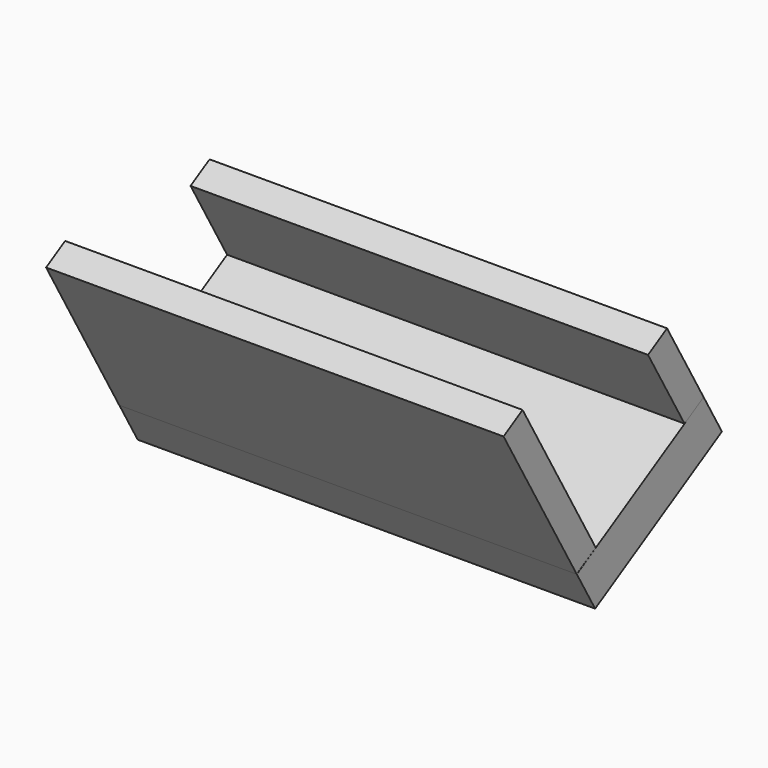
from build123d import *

# Parameters (mm, degrees)
SKETCH048_W             = 50
SKETCH048_H             = 20
PAD047_DEPTH            = 5
SKETCH049_W             = 50
SKETCH049_H             = 3
PAD048_DEPTH            = 20
SKETCH050_W             = 50
SKETCH050_H             = 10
PAD049_DEPTH            = 3
BODY040_PLACEMENT_ANGLE = 30


with BuildPart() as part:
    # Sketch048 → Pad047 (new body)
    with BuildSketch(Plane.XY):
        with Locations((184.845276, -123.914059)):
            Rectangle(SKETCH048_W, SKETCH048_H)
    extrude(amount=PAD047_DEPTH)

    # Sketch049 (on Face6 of Pad047) → Pad048 (join)
    with BuildSketch(Plane.XY.offset(5)):
        with Locations((184.83606, -132.417099)):
            Rectangle(SKETCH049_W, SKETCH049_H)
    extrude(amount=PAD048_DEPTH)

    # Sketch050 (on Face7 of Pad048) → Pad049 (join)
    with BuildSketch(Plane(origin=(0, -113.914059, 0), x_dir=(-1, 0, 0), z_dir=(0, 1, 0))):
        with Locations((-184.841869, 9.989668)):
            Rectangle(SKETCH050_W, SKETCH050_H)
    extrude(amount=-PAD049_DEPTH)


with BuildPart() as part_1:
    # Body040 placement: moved
    add(part.part.moved(Location((-71.85, 175.225583, 121.306579))).rotate(Axis((-71.85, 175.225583, 121.306579), (1, 0, 0)), BODY040_PLACEMENT_ANGLE))


solid = part_1.part
